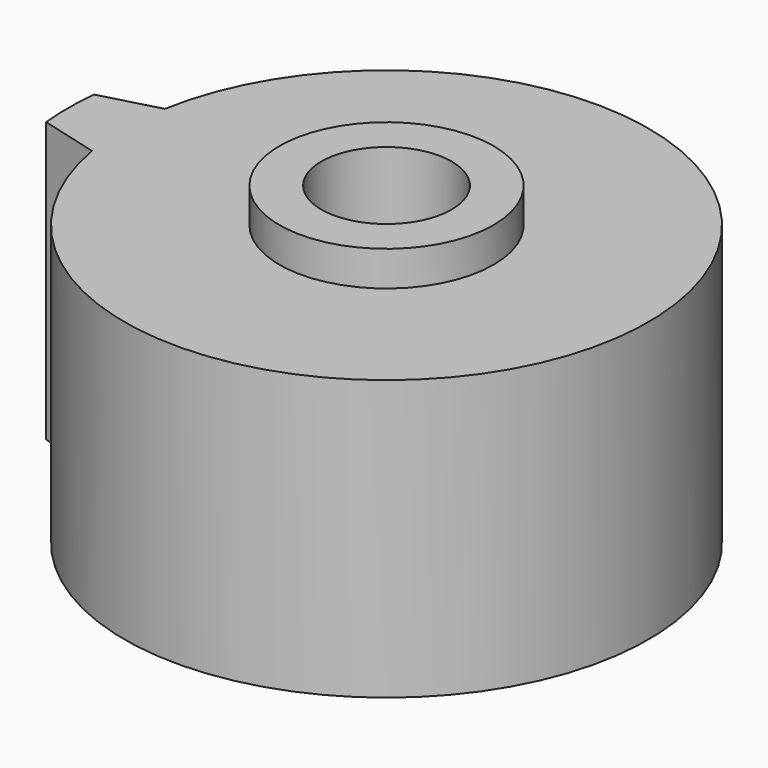
from build123d import *

# Parameters (mm, degrees)
F2_DEPTH = 10.16
F3_R     = 3.89255
F4_DEPTH = 1.27
F5_R     = 2.36855
F6_DEPTH = 6.096
F8_DEPTH = 1.65


with BuildPart() as f2:
    # F1 (on Top) → F2 (new body)
    with BuildSketch(Plane.XY):
        with BuildLine():
            Line((-11.5060112064, -1.0844146426), (-9.3802938474, -1.6539988923))
            ThreePointArc((-9.3802938474, -1.6539988923), (9.525, 0), (-9.3802938474, 1.6539988923))
            Line((-9.3802938474, 1.6539988923), (-11.5060112064, 1.0844146426))
            ThreePointArc((-11.5060112064, 1.0844146426), (-11.557, 0), (-11.5060112064, -1.0844146426))
        make_face()
    extrude(amount=F2_DEPTH)

    # F3 (on face) → F4 (join)
    with BuildSketch(Plane.XY.offset(10.16)):
        Circle(F3_R)
    extrude(amount=F4_DEPTH)

    # F5 (on face) → F6 (cut)
    with BuildSketch(Plane.XY.offset(11.43)):
        Circle(F5_R)
    extrude(amount=-F6_DEPTH, mode=Mode.SUBTRACT)

    # F7 (on face) → F8 (join)
    with BuildSketch(Plane.XY.offset(5.334)):
        with BuildLine():
            ThreePointArc((0.55, 2.3038075229), (0, 2.36855), (-0.55, 2.3038075229))
            Line((-0.55, 2.3038075229), (-0.55, 1.0099504938))
            ThreePointArc((-0.55, 1.0099504938), (-1.15, 0), (-0.55, -1.0099504938))
            Line((-0.55, -1.0099504938), (-0.55, -2.3038075229))
            ThreePointArc((-0.55, -2.3038075229), (0, -2.36855), (0.55, -2.3038075229))
            Line((0.55, -2.3038075229), (0.55, -1.0099504938))
            ThreePointArc((0.55, -1.0099504938), (1.15, 0), (0.55, 1.0099504938))
            Line((0.55, 1.0099504938), (0.55, 2.3038075229))
        make_face()
    extrude(amount=F8_DEPTH)


solid = f2.part
